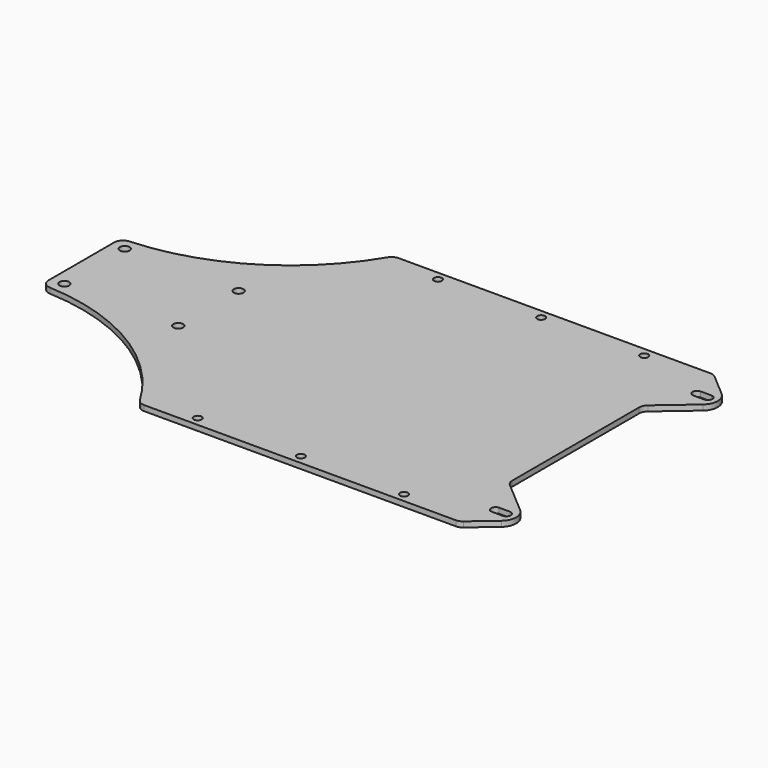
from build123d import *

# Parameters (mm, degrees)
SKETCH_R   = 2.7
SKETCH_R_2 = 2.2
PAD_DEPTH  = 3
FILLET_R   = 5


with BuildPart() as part:
    # Sketch → Pad (new body)
    with BuildSketch(Plane.XY):
        with BuildLine():
            Line((-103.1, 27.65), (-103.1, 0))
            Line((-103.1, 0), (172.5, 0))
            Line((172.5, 46.548967), (172.5, 0))
            Line((172.5, 46.548967), (192.536791, 63.750663))
            ThreePointArc((192.536791, 63.750663), (195.5, 70.199983), (192.536817, 76.649314))
            Line((178.5, 88.7), (192.536817, 76.649314))
            Line((0, 88.7), (178.5, 88.7))
            ThreePointArc((-103.1, 27.65), (-43.385052, 44.386201), (0, 88.7))
        make_face()
        with Locations((-95.7, 21.05)):
            Circle(SKETCH_R, mode=Mode.SUBTRACT)
        with Locations((-32.2, 21.05)):
            Circle(SKETCH_R, mode=Mode.SUBTRACT)
        with Locations((86.25, 83.7)):
            Circle(SKETCH_R_2, mode=Mode.SUBTRACT)
        with Locations((28.75, 83.7)):
            Circle(SKETCH_R_2, mode=Mode.SUBTRACT)
        with Locations((143.75, 83.7)):
            Circle(SKETCH_R_2, mode=Mode.SUBTRACT)
        with BuildLine():
            ThreePointArc((184, 72.7), (181.5, 70.2), (184, 67.7))
            Line((184, 67.7), (190, 67.7))
            ThreePointArc((190, 67.7), (192.5, 70.2), (190, 72.7))
            Line((190, 72.7), (184, 72.7))
        make_face(mode=Mode.SUBTRACT)
    pad = extrude(amount=PAD_DEPTH)

    # Mirrored: Pad across XZ
    add(pad.mirror(Plane.XZ))

    # Fillet
    fillet_edges = [part.edges().sort_by_distance(p)[0] for p in [
        (178.5, -88.7, 1.5),
        (0, -88.7, 1.5),
        (-103.1, -27.65, 1.5),
        (192.536817, 76.649314, 1.5),
        (178.5, 88.7, 1.5),
        (0, 88.7, 1.5),
        (-103.1, 27.65, 1.5),
        (172.5, 46.548967, 1.5),
        (172.5, -46.548967, 1.5),
    ]]
    fillet(fillet_edges, radius=FILLET_R)


solid = part.part
